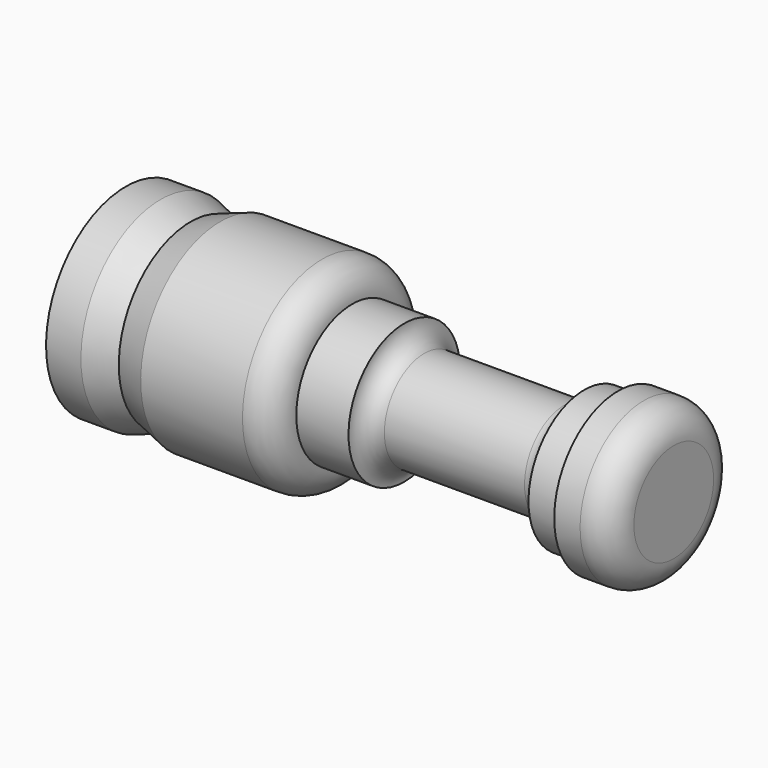
from build123d import *


with BuildPart() as f1:
    # F0 (on Front) → F1 (revolve)
    with BuildSketch(Plane.XZ):
        with BuildLine():
            Line((27.042172, -16.626504), (-27.957828, -16.626504))
            Line((-27.957828, -16.626504), (-27.957828, -26.626504))
            Line((-27.957828, -26.626504), (-24.457828, -26.626504))
            Line((-24.457828, -26.626504), (-21.457828, -25.626504))
            Line((-21.457828, -25.626504), (-18.457828, -26.626504))
            Line((-18.457828, -26.626504), (-8.241638, -26.626504))
            ThreePointArc((-8.241638, -26.626504), (-6.120318, -25.747824), (-5.241638, -23.626504))
            Line((-5.241638, -23.626504), (0, -23.626504))
            ThreePointArc((0, -23.626504), (0.585786, -22.21229), (2, -21.626504))
            Line((2, -21.626504), (16.063501, -21.626504))
            ThreePointArc((16.063501, -21.626504), (17.477715, -22.21229), (18.063501, -23.626504))
            Line((18.063501, -23.626504), (21.445781, -23.626504))
            Line((21.445781, -23.626504), (21.445781, -24.626504))
            Line((21.445781, -24.626504), (24.042172, -24.626504))
            ThreePointArc((24.042172, -24.626504), (26.163492, -23.747824), (27.042172, -21.626504))
            Line((27.042172, -21.626504), (27.042172, -16.626504))
        make_face()
    revolve(axis=Axis((-0.481928, 0, -16.626504), (1, 0, 0)))


solid = f1.part
